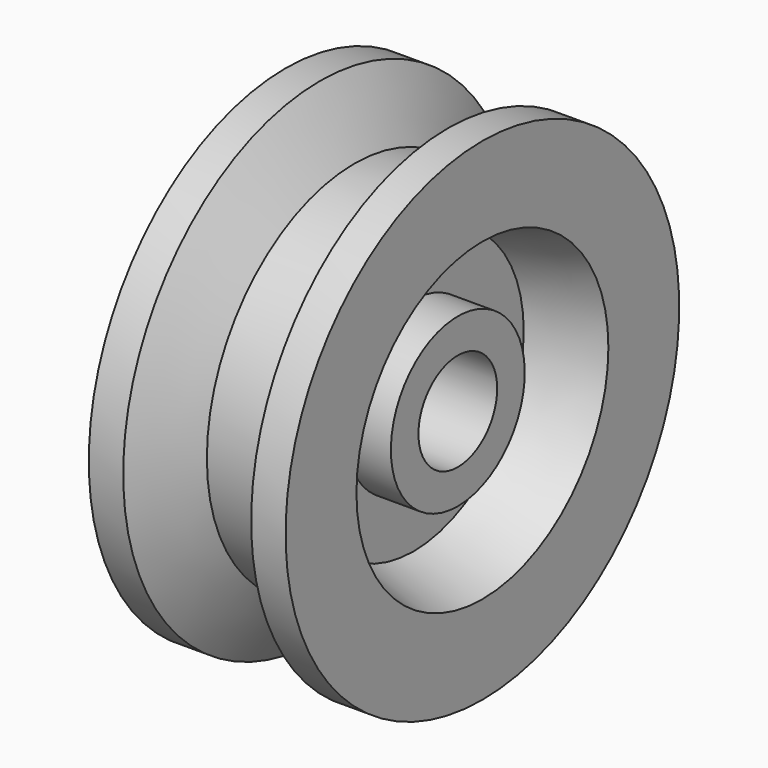
from build123d import *


with BuildPart() as f1:
    # F0 (on Front) → F1 (revolve)
    with BuildSketch(Plane.XZ):
        Polygon((-15, -10), (-15, -17), (-6, -17), (-6, -28), (-20, -32), (-20, -50), (-13, -50), (-6, -37.5), (6, -37.5), (13, -50), (20, -50), (20, -32), (6, -28), (6, -17), (15, -17), (15, -10), align=None)
    revolve(axis=Axis((2.55049, 0, 0), (1, 0, 0)))


solid = f1.part
